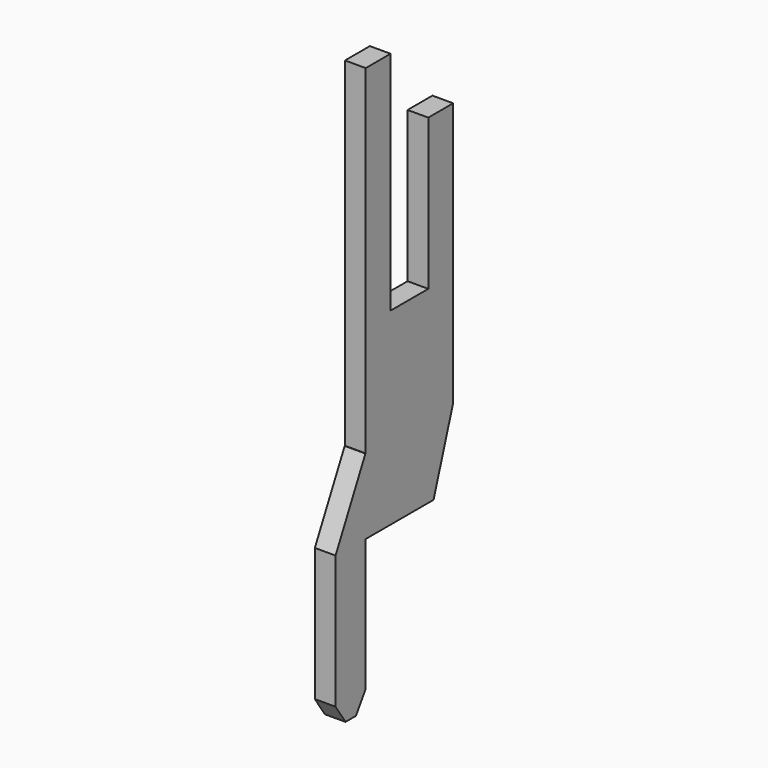
from build123d import *

# Parameters (mm, degrees)
BOX098_W                = 2.9
BOX098_H                = 0.55
BOX098_DEPTH            = 15
BOX099_W                = 1.25
BOX099_H                = 0.55
BOX099_DEPTH            = 6
BOX100_W                = 1.1
BOX100_H                = 0.6
BOX100_DEPTH            = 2
BOX102_W                = 1
BOX102_H                = 0.55
BOX102_DEPTH            = 6
BOX101_W                = 3
BOX101_H                = 0.55
BOX101_DEPTH            = 4
CHAMFER046_SIZE2        = 0.65
CHAMFER046_SIZE         = 2
CHAMFER047_ANGLE        = 33
CHAMFER047_SIZE         = 0.5
CHAMFER049_ANGLE        = 56
CHAMFER049_SIZE         = 0.33
CHAMFER048_ANGLE        = 26.565
CHAMFER048_SIZE         = 1.98
BODY034_PLACEMENT_ANGLE = 90


with BuildPart() as part:
    # Box098 → Box098 (join)
    with BuildSketch(Plane(origin=(-4.95, -0.275, 0), x_dir=(1, 0, 0), z_dir=(0, 0, 1))):
        with Locations((1.45, 0.275)):
            Rectangle(BOX098_W, BOX098_H)
    extrude(amount=BOX098_DEPTH)

    # Box099 → Box099 (cut)
    with BuildSketch(Plane(origin=(-4.125, -0.275, 9), x_dir=(1, 0, 0), z_dir=(0, 0, 1))):
        with Locations((0.625, 0.275)):
            Rectangle(BOX099_W, BOX099_H)
    extrude(amount=BOX099_DEPTH, mode=Mode.SUBTRACT)

    # Box100 → Box100 (cut)
    with BuildSketch(Plane(origin=(-3, -0.3, 13), x_dir=(1, 0, 0), z_dir=(0, 0, 1))):
        with Locations((0.55, 0.3)):
            Rectangle(BOX100_W, BOX100_H)
    extrude(amount=BOX100_DEPTH, mode=Mode.SUBTRACT)

    # Box102 → Box102 (join)
    with BuildSketch(Plane(origin=(-5.95, -0.275, 0), x_dir=(1, 0, 0), z_dir=(0, 0, 1))):
        with Locations((0.5, 0.275)):
            Rectangle(BOX102_W, BOX102_H)
    extrude(amount=BOX102_DEPTH)

    # Box101 → Box101 (cut)
    with BuildSketch(Plane(origin=(-4.95, 0.275, 4), x_dir=(1, 0, 0), z_dir=(0, 0, -1))):
        with Locations((1.5, 0.275)):
            Rectangle(BOX101_W, BOX101_H)
    extrude(amount=BOX101_DEPTH, mode=Mode.SUBTRACT)

    # Chamfer046
    chamfer046_edges = [part.edges().sort_by_distance(p)[0] for p in [
        (-2.05, 0, 4),
    ]]
    chamfer046_side = part.faces().sort_by_distance((-2.05, 0, 8.5))[0]
    chamfer(chamfer046_edges, length=CHAMFER046_SIZE, length2=CHAMFER046_SIZE2, reference=chamfer046_side)

    # Chamfer047
    chamfer047_edges = [part.edges().sort_by_distance(p)[0] for p in [
        (-4.95, 0, 0),
    ]]
    chamfer047_side = part.faces().sort_by_distance((-4.95, 0, 2))[0]
    chamfer(chamfer047_edges, length=CHAMFER047_SIZE, angle=CHAMFER047_ANGLE, reference=chamfer047_side)

    # Chamfer049
    chamfer049_edges = [part.edges().sort_by_distance(p)[0] for p in [
        (-5.95, 0, 0),
    ]]
    chamfer049_side = part.faces().sort_by_distance((-5.612352, 0, 0))[0]
    chamfer(chamfer049_edges, length=CHAMFER049_SIZE, angle=CHAMFER049_ANGLE, reference=chamfer049_side)

    # Chamfer048
    chamfer048_edges = [part.edges().sort_by_distance(p)[0] for p in [
        (-5.95, 0, 6),
    ]]
    chamfer048_side = part.faces().sort_by_distance((-5.95, 0, 3.244623))[0]
    chamfer(chamfer048_edges, length=CHAMFER048_SIZE, angle=CHAMFER048_ANGLE, reference=chamfer048_side)


with BuildPart() as part_1:
    # Body034 placement: moved
    add(part.part.moved(Location((0, 0, -4))).rotate(Axis((0, 0, -4), (0, 0, 1)), BODY034_PLACEMENT_ANGLE))


solid = part_1.part
